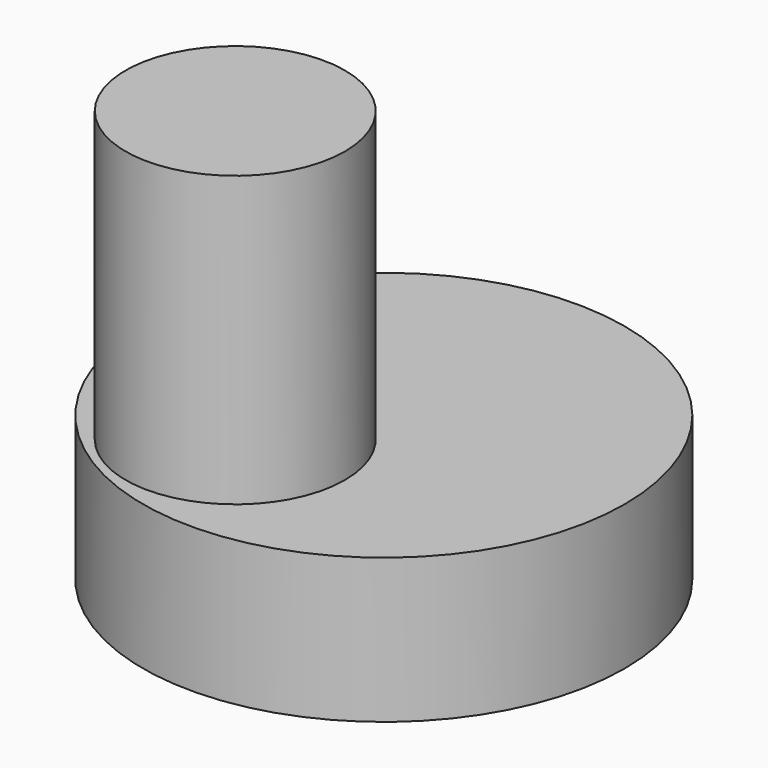
from build123d import *

# Parameters (mm, degrees)
F0_R     = 49.9731951159
F1_DEPTH = 30
F2_R     = 22.7581218929
F3_DEPTH = 60
F4_T     = -3


with BuildPart() as f1:
    # F0 (on Top) → F1 (new body)
    with BuildSketch(Plane.XY):
        Circle(F0_R)
    extrude(amount=-F1_DEPTH)

    # F2 (on face) → F3 (join)
    with BuildSketch(Plane.XY):
        with Locations((-13.4756937623, -21.6836426407)):
            Circle(F2_R)
        with Locations((-13.4756937623, -21.6836426407)):
            Circle(F2_R)
    extrude(amount=F3_DEPTH)

    # F4 (hollow: no face is removed)
    offset(amount=F4_T, kind=Kind.INTERSECTION, mode=Mode.SUBTRACT)


solid = f1.part
